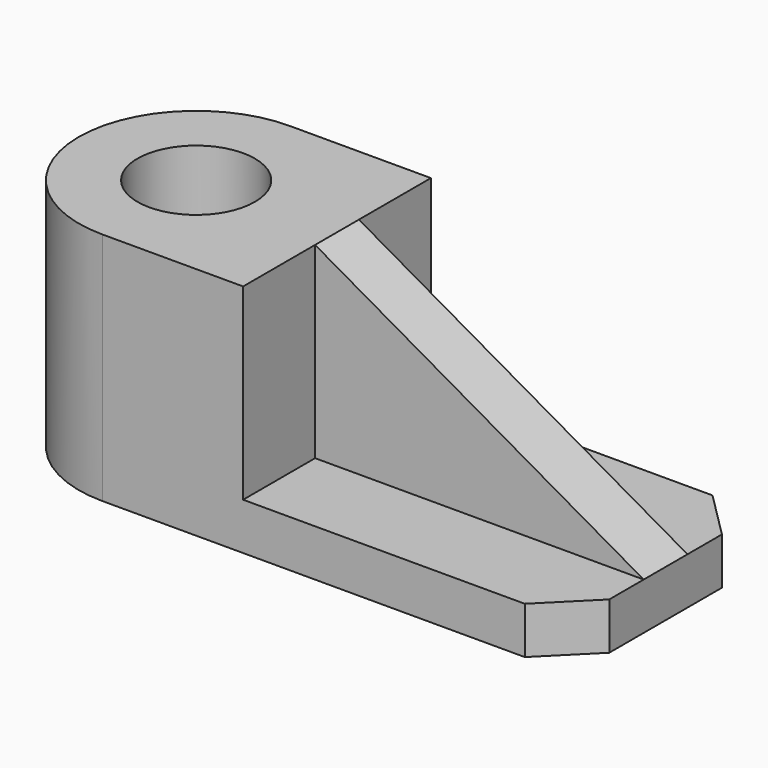
from build123d import *

# Parameters (mm, degrees)
F0_W      = 60
F0_H      = 30
F1_DEPTH  = 30
F3_DEPTH  = 30
F4_W      = 42
F4_H      = 30
F5_DEPTH  = 24
F6_W      = 7
F6_H      = 24
F7_DEPTH  = 42
F9_DEPTH  = 25
F10_R     = 7.5
F11_DEPTH = 25
F12_SIZE  = 6


with BuildPart() as f1:
    # F0 (on Front) → F1 (new body)
    with BuildSketch(Plane.XZ):
        with Locations((-2.8e-05, -7.719351)):
            Rectangle(F0_W, F0_H)
    extrude(amount=F1_DEPTH)

    # F2 (on face) → F3 (join)
    with BuildSketch(Plane.XY.offset(7.280649)):
        with BuildLine():
            Line((-30.000028, -30), (-30.000028, 0))
            ThreePointArc((-30.000028, 0), (-45.000028, -15), (-30.000028, -30))
        make_face()
    extrude(amount=-F3_DEPTH)

    # F4 (on face) → F5 (cut)
    with BuildSketch(Plane.XY.offset(7.280649)):
        with Locations((8.999972, -15)):
            Rectangle(F4_W, F4_H)
    extrude(amount=-F5_DEPTH, mode=Mode.SUBTRACT)

    # F6 (on face) → F7 (join, through all)
    with BuildSketch(Plane.YZ.offset(-12.000028)):
        with Locations((-15, -4.719351)):
            Rectangle(F6_W, F6_H)
    extrude(amount=F7_DEPTH)

    # F8 (on face) → F9 (cut)
    with BuildSketch(Plane.XZ.offset(18.5)):
        Polygon((29.999972, 7.280649), (-12.000028, 7.280649), (29.999972, -16.719351), align=None)
    extrude(amount=-F9_DEPTH, mode=Mode.SUBTRACT)

    # F10 (on face) → F11 (cut)
    with BuildSketch(Plane.XY.offset(7.280649)):
        with Locations((-30.000028, -15)):
            Circle(F10_R)
    extrude(amount=-F11_DEPTH, mode=Mode.SUBTRACT)

    # F12
    f12_edges = [f1.edges().sort_by_distance(p)[0] for p in [
        (29.999972, -30, -19.719351),
        (29.999972, 0, -19.719351),
    ]]
    chamfer(f12_edges, length=F12_SIZE)


solid = f1.part
